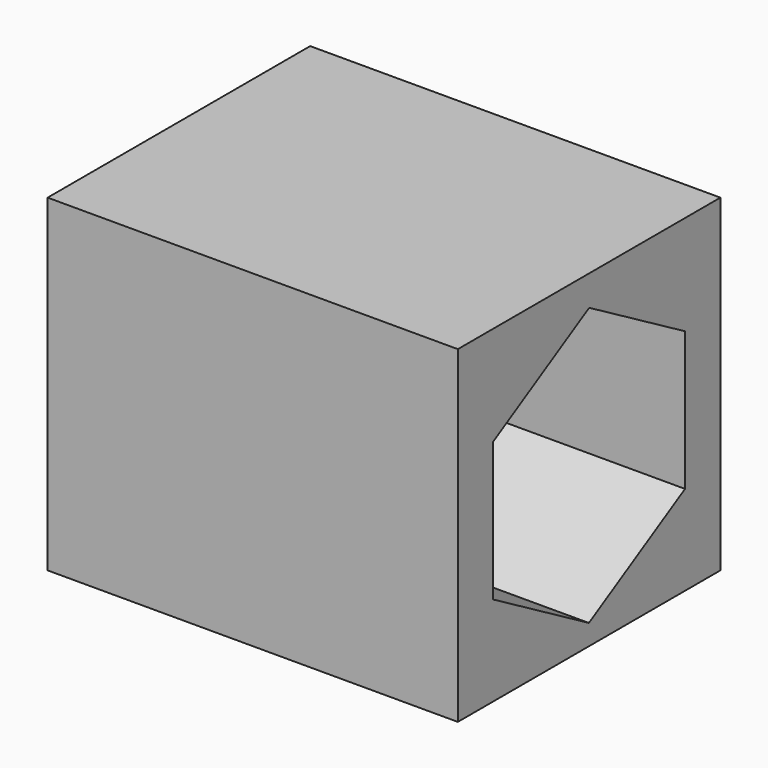
from build123d import *

# Parameters (mm, degrees)
CYLINDER031_R              = 1.7
CYLINDER031_DEPTH          = 20
EXTRUDE004_DEPTH           = 9
EXTRUDE004_PLACEMENT_ANGLE = 90
BOX042_W                   = 10
BOX042_H                   = 8
BOX042_DEPTH               = 8


with BuildPart() as cylinder031:
    # Cylinder031 → Cylinder031 (new body)
    with BuildSketch(Plane(origin=(140, 9.74, 51.5), x_dir=(0, 0, -1), z_dir=(1, 0, 0))):
        Circle(CYLINDER031_R)
    extrude(amount=CYLINDER031_DEPTH)


with BuildPart() as extrude004:
    # Sketch004 → Extrude004 (new body)
    with BuildSketch(Plane.XY.offset(75)):
        Polygon((-29.694611, 6.813304), (-28.00073, 9.738351), (-29.686954, 12.667818), (-33.06706, 12.672239), (-34.760941, 9.747192), (-33.074716, 6.817725), align=None)
    extrude(amount=EXTRUDE004_DEPTH)


with BuildPart() as extrude004_1:
    # Extrude004 placement: moved
    add(extrude004.part.moved(Location((71, 0, 0))).rotate(Axis((71, 0, 0), (0, 1, 0)), EXTRUDE004_PLACEMENT_ANGLE))


with BuildPart() as cut050:
    # Box042 → Box042 (new body)
    with BuildSketch(Plane(origin=(144, 5.745, 27.5), x_dir=(1, 0, 0), z_dir=(0, 0, 1))):
        with Locations((5, 4)):
            Rectangle(BOX042_W, BOX042_H)
    extrude(amount=BOX042_DEPTH)

    # Cut049: cut Extrude004
    add(extrude004_1.part, mode=Mode.SUBTRACT)


with BuildPart() as cut050_1:
    # Cut049 placement: moved
    add(cut050.part.moved(Location((0, 0, 20))))

    # Cut050: cut Cylinder031
    add(cylinder031.part, mode=Mode.SUBTRACT)


solid = cut050_1.part
